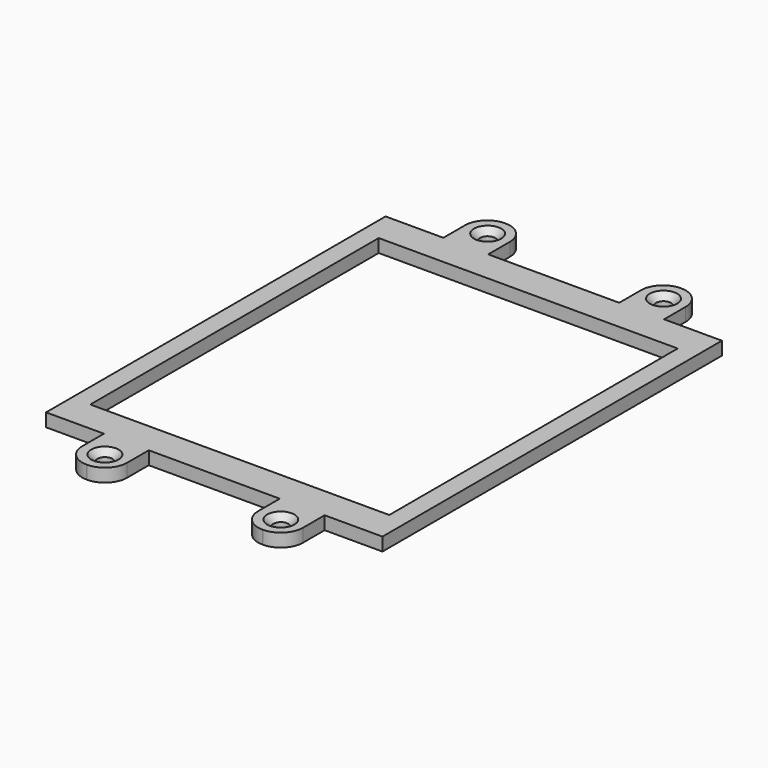
from build123d import *

# Parameters (mm, degrees)
SKETCH045_R      = 1.7
EXTRUDE003_DEPTH = 4
EXTRUDE004_DEPTH = 3
CHAMFER001_SIZE  = 1.4


with BuildPart() as extrude003:
    # Sketch045 → Extrude003 (new body)
    with BuildSketch(Plane.XY):
        with Locations((10.555, 54.404)):
            Circle(SKETCH045_R)
        with Locations((50.555, 54.404)):
            Circle(SKETCH045_R)
        with Locations((10.555, -54.404)):
            Circle(SKETCH045_R)
        with Locations((50.555, -54.404)):
            Circle(SKETCH045_R)
    extrude(amount=EXTRUDE003_DEPTH)


with BuildPart() as pcbholder:
    # Sketch044 → Extrude004 (new body)
    with BuildSketch(Plane.XY):
        with BuildLine():
            Line((68.759, -48.254), (68.759, 48.254))
            Line((55.605, 48.254), (68.759, 48.254))
            Line((55.605, 48.254), (55.605, 54.404))
            ThreePointArc((55.605, 54.404), (54.125889, 57.974889), (50.555, 59.454))
            Line((50.555, 59.454), (50.455, 59.454))
            ThreePointArc((50.455, 59.454), (46.884111, 57.974889), (45.405, 54.404))
            Line((45.405, 54.404), (45.405, 48.254))
            Line((15.605, 48.254), (45.405, 48.254))
            Line((15.605, 48.254), (15.605, 54.404))
            ThreePointArc((15.605, 54.404), (14.125889, 57.974889), (10.555, 59.454))
            Line((10.555, 59.454), (10.455, 59.454))
            ThreePointArc((10.455, 59.454), (6.884111, 57.974889), (5.405, 54.404))
            Line((5.405, 54.404), (5.405, 48.254))
            Line((-7.749, 48.254), (5.405, 48.254))
            Line((-7.749, 48.254), (-7.749, 0))
            Line((-7.749, 0), (-7.749, -48.254))
            Line((-7.749, -48.254), (5.405, -48.254))
            Line((5.405, -48.254), (5.405, -54.404))
            ThreePointArc((5.405, -54.404), (6.884111, -57.974889), (10.455, -59.454))
            Line((10.455, -59.454), (10.555, -59.454))
            ThreePointArc((10.555, -59.454), (14.125889, -57.974889), (15.605, -54.404))
            Line((15.605, -54.404), (15.605, -48.254))
            Line((15.605, -48.254), (45.405, -48.254))
            Line((45.405, -48.254), (45.405, -54.404))
            ThreePointArc((45.405, -54.404), (46.884111, -57.974889), (50.455, -59.454))
            Line((50.455, -59.454), (50.555, -59.454))
            ThreePointArc((50.555, -59.454), (54.125889, -57.974889), (55.605, -54.404))
            Line((55.605, -54.404), (55.605, -48.254))
            Line((55.605, -48.254), (68.759, -48.254))
        make_face()
        Polygon((-3.495, 41), (-3.495, -41), (64.505, -41), (64.505, 41), (30.505, 41), align=None, mode=Mode.SUBTRACT)
    extrude(amount=EXTRUDE004_DEPTH)

    # Cut: cut Extrude003
    add(extrude003.part, mode=Mode.SUBTRACT)

    # Chamfer001
    chamfer001_edges = [pcbholder.edges().sort_by_distance(p)[0] for p in [
        (8.855, 54.404, 3),
        (48.855, 54.404, 3),
        (8.855, -54.404, 3),
        (48.855, -54.404, 3),
    ]]
    chamfer(chamfer001_edges, length=CHAMFER001_SIZE)


with BuildPart() as pcbholder_1:
    # Body004 placement: moved
    add(pcbholder.part.moved(Location((0, 0, -44.4))))


solid = pcbholder_1.part
